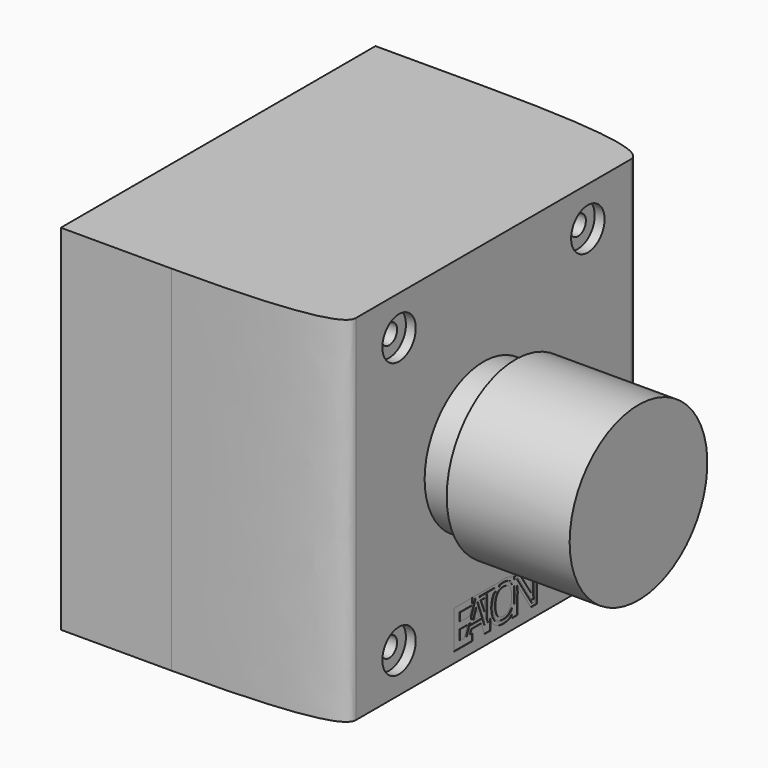
from build123d import *

# Parameters (mm, degrees)
PAD044_DEPTH            = 72
POCKET009_DEPTH         = 0.1
SKETCH057_R             = 15
PAD045_DEPTH            = 6.5
SKETCH058_R             = 17.5
PAD046_DEPTH            = 25
SKETCH059_R             = 4.25
POCKET010_DEPTH         = 2
SKETCH060_R             = 2
POCKET011_DEPTH         = 25
BODY014_ROLL_ANGLE      = 90
BODY014_PLACEMENT_ANGLE = 90


with BuildPart() as part:
    # Sketch055 → Pad044 (new body)
    with BuildSketch(Plane.XZ):
        with BuildLine():
            add(Edge.make_bspline(
                [(0, 22.5), (0, 56), (5, 56)],
                knots=[0, 0, 0, 1, 1, 1], degree=2))
            Line((5, 56), (75, 56))
            add(Edge.make_bspline(
                [(75, 56), (80, 56), (80, 22.5)],
                knots=[0, 0, 0, 1, 1, 1], degree=2))
            Line((80, 22.5), (80, 0))
            Line((80, 0), (0, 0))
            Line((0, 0), (0, 22.5))
        make_face()
    extrude(amount=PAD044_DEPTH)

    # Sketch056 → Pocket009 (cut)
    with BuildSketch(Plane(origin=(30, -62, 56), x_dir=(1, 0, 0), z_dir=(0, 0, 1))):
        with BuildLine():
            add(Edge.make_bspline(
                [(12.594125, 0), (12.204852, 0), (11.843101, -0.041679), (11.50874, -0.122307)],
                knots=[0, 0, 0, 0, 1, 1, 1, 1], degree=3))
            add(Edge.make_bspline(
                [(11.50874, -0.122307), (11.50874, -0.110394)],
                knots=[0, 0, 0.011913, 0.011913], degree=1))
            add(Edge.make_bspline(
                [(11.50874, -0.110394), (6.299052, -0.110394)],
                knots=[0, 0, 5.209688, 5.209688], degree=1))
            add(Edge.make_bspline(
                [(6.299052, -0.110394), (6.287116, -0.080215)],
                knots=[0, 0, 0.032454, 0.032454], degree=1))
            add(Edge.make_bspline(
                [(6.287116, -0.080215), (5.060886, -0.080215)],
                knots=[0, 0, 1.22623, 1.22623], degree=1))
            add(Edge.make_bspline(
                [(5.060886, -0.080215), (4.624026, -1.200834)],
                knots=[0, 0, 1.202761, 1.202761], degree=1))
            add(Edge.make_bspline(
                [(4.624026, -1.200834), (4.624026, -0.110394)],
                knots=[0, 0, 1.09044, 1.09044], degree=1))
            add(Edge.make_bspline(
                [(4.624026, -0.110394), (0, -0.110394)],
                knots=[0, 0, 4.624026, 4.624026], degree=1))
            add(Edge.make_bspline(
                [(0, -0.110394), (0, -7.899136)],
                knots=[0, 0, 7.788742, 7.788742], degree=1))
            add(Edge.make_bspline(
                [(0, -7.899136), (2.012418, -7.899136)],
                knots=[0, 0, 2.012418, 2.012418], degree=1))
            add(Edge.make_bspline(
                [(2.012418, -7.899136), (3.572062, -7.899136)],
                knots=[0, 0, 1.559644, 1.559644], degree=1))
            add(Edge.make_bspline(
                [(3.572062, -7.899136), (4.624026, -7.899136)],
                knots=[0, 0, 1.051964, 1.051964], degree=1))
            add(Edge.make_bspline(
                [(4.624026, -7.899136), (4.624026, -6.507694)],
                knots=[0, 0, 1.391443, 1.391443], degree=1))
            add(Edge.make_bspline(
                [(4.624026, -6.507694), (4.108389, -6.507694)],
                knots=[0, 0, 0.515637, 0.515637], degree=1))
            add(Edge.make_bspline(
                [(4.108389, -6.507694), (4.429866, -5.672987)],
                knots=[0, 0, 0.894473, 0.894473], degree=1))
            add(Edge.make_bspline(
                [(4.429866, -5.672987), (6.877553, -5.672987)],
                knots=[0, 0, 2.447687, 2.447687], degree=1))
            add(Edge.make_bspline(
                [(6.877553, -5.672987), (7.745701, -7.899136)],
                knots=[0, 0, 2.389439, 2.389439], degree=1))
            add(Edge.make_bspline(
                [(7.745701, -7.899136), (7.763207, -7.899136)],
                knots=[0, 0, 0.017506, 0.017506], degree=1))
            add(Edge.make_bspline(
                [(7.763207, -7.899136), (9.267946, -7.899136)],
                knots=[0, 0, 1.504738, 1.504738], degree=1))
            add(Edge.make_bspline(
                [(9.267946, -7.899136), (9.324443, -7.899136)],
                knots=[0, 0, 0.056497, 0.056497], degree=1))
            add(Edge.make_bspline(
                [(9.324443, -7.899136), (9.267946, -7.753797)],
                knots=[0, 0, 0.155934, 0.155934], degree=1))
            add(Edge.make_bspline(
                [(9.267946, -7.753797), (9.267946, -5.780205)],
                knots=[0, 0, 1.973593, 1.973593], degree=1))
            add(Edge.make_bspline(
                [(9.267946, -5.780205), (9.411309, -6.183651), (9.582414, -6.566956), (9.841672, -6.876204)],
                knots=[0, 0, 0, 0, 1, 1, 1, 1], degree=3))
            add(Edge.make_bspline(
                [(9.841672, -6.876204), (9.842468, -6.876998)],
                knots=[0, 0, 0.001124, 0.001124], degree=1))
            add(Edge.make_bspline(
                [(9.842468, -6.876998), (9.843263, -6.877792)],
                knots=[0, 0, 0.001124, 0.001124], degree=1))
            add(Edge.make_bspline(
                [(9.843263, -6.877792), (10.14946, -7.235575), (10.536235, -7.515756), (10.990716, -7.713293)],
                knots=[0, 0, 0, 0, 1, 1, 1, 1], degree=3))
            add(Edge.make_bspline(
                [(10.990716, -7.713293), (10.993103, -7.714087)],
                knots=[0, 0, 0.002516, 0.002516], degree=1))
            add(Edge.make_bspline(
                [(10.993103, -7.714087), (10.994695, -7.714881)],
                knots=[0, 0, 0.001779, 0.001779], degree=1))
            add(Edge.make_bspline(
                [(10.994695, -7.714881), (11.456226, -7.908054), (11.987744, -8), (12.583781, -8)],
                knots=[0, 0, 0, 0, 1, 1, 1, 1], degree=3))
            add(Edge.make_bspline(
                [(12.583781, -8), (13.160484, -8), (13.678935, -7.907157), (14.13308, -7.714087)],
                knots=[0, 0, 0, 0, 1, 1, 1, 1], degree=3))
            add(Edge.make_bspline(
                [(14.13308, -7.714087), (14.365213, -7.616835), (14.523604, -7.431466), (14.718743, -7.288395)],
                knots=[0, 0, 0, 0, 1, 1, 1, 1], degree=3))
            add(Edge.make_bspline(
                [(14.718743, -7.288395), (14.718743, -7.899136)],
                knots=[0, 0, 0.610742, 0.610742], degree=1))
            add(Edge.make_bspline(
                [(14.718743, -7.899136), (16.153456, -7.899136)],
                knots=[0, 0, 1.434713, 1.434713], degree=1))
            add(Edge.make_bspline(
                [(16.153456, -7.899136), (16.153456, -4.347463)],
                knots=[0, 0, 3.551673, 3.551673], degree=1))
            add(Edge.make_bspline(
                [(16.153456, -4.347463), (16.160588, -4.22418), (16.202792, -4.122505), (16.202792, -3.994838)],
                knots=[0, 0, 0, 0, 1, 1, 1, 1], degree=3))
            add(Edge.make_bspline(
                [(16.202792, -3.994838), (16.202792, -3.785244), (16.16823, -3.598459), (16.148682, -3.401568)],
                knots=[0, 0, 0, 0, 1, 1, 1, 1], degree=3))
            add(Edge.make_bspline(
                [(16.148682, -3.401568), (16.146191, -3.214645), (16.142933, -3.027806), (16.132767, -2.848009)],
                knots=[0, 0, 0, 0, 1, 1, 1, 1], degree=3))
            add(Edge.make_bspline(
                [(16.132767, -2.848009), (16.132767, -2.839273)],
                knots=[0, 0, 0.008736, 0.008736], degree=1))
            add(Edge.make_bspline(
                [(16.132767, -2.839273), (16.130935, -2.774386), (16.126329, -2.719988), (16.124014, -2.657401)],
                knots=[0, 0, 0, 0, 1, 1, 1, 1], degree=3))
            add(Edge.make_bspline(
                [(16.124014, -2.657401), (19.507487, -7.899136)],
                knots=[0, 0, 6.238884, 6.238884], degree=1))
            add(Edge.make_bspline(
                [(19.507487, -7.899136), (21.02814, -7.899136)],
                knots=[0, 0, 1.520653, 1.520653], degree=1))
            add(Edge.make_bspline(
                [(21.02814, -7.899136), (21.02814, -0.110394)],
                knots=[0, 0, 7.788742, 7.788742], degree=1))
            add(Edge.make_bspline(
                [(21.02814, -0.110394), (19.583877, -0.110394)],
                knots=[0, 0, 1.444263, 1.444263], degree=1))
            add(Edge.make_bspline(
                [(19.583877, -0.110394), (19.583877, -4.468182)],
                knots=[0, 0, 4.357788, 4.357788], degree=1))
            add(Edge.make_bspline(
                [(19.583877, -4.468182), (19.583877, -4.686201), (19.586639, -4.923965), (19.593426, -5.181376)],
                knots=[0, 0, 0, 0, 1, 1, 1, 1], degree=3))
            add(Edge.make_bspline(
                [(19.593426, -5.181376), (19.594222, -5.185347)],
                knots=[0, 0, 0.00405, 0.00405], degree=1))
            add(Edge.make_bspline(
                [(19.594222, -5.185347), (19.594222, -5.189318)],
                knots=[0, 0, 0.003971, 0.003971], degree=1))
            add(Edge.make_bspline(
                [(19.594222, -5.189318), (19.59691, -5.240297), (19.598172, -5.280567), (19.600588, -5.329892)],
                knots=[0, 0, 0, 0, 1, 1, 1, 1], degree=3))
            add(Edge.make_bspline(
                [(19.600588, -5.329892), (16.229051, -0.110394)],
                knots=[0, 0, 6.213728, 6.213728], degree=1))
            add(Edge.make_bspline(
                [(16.229051, -0.110394), (14.718743, -0.110394)],
                knots=[0, 0, 1.510308, 1.510308], degree=1))
            add(Edge.make_bspline(
                [(14.718743, -0.110394), (14.718743, -0.636156)],
                knots=[0, 0, 0.525762, 0.525762], degree=1))
            add(Edge.make_bspline(
                [(14.718743, -0.636156), (14.665122, -0.598161), (14.626356, -0.543866), (14.56994, -0.509084)],
                knots=[0, 0, 0, 0, 1, 1, 1, 1], degree=3))
            add(Edge.make_bspline(
                [(14.56994, -0.509084), (14.569144, -0.508289)],
                knots=[0, 0, 0.001124, 0.001124], degree=1))
            add(Edge.make_bspline(
                [(14.569144, -0.508289), (14.022441, -0.164724), (13.356504, 0), (12.594125, 0)],
                knots=[0, 0, 0, 0, 1, 1, 1, 1], degree=3))
        make_face()
        with BuildLine():
            add(Edge.make_bspline(
                [(15.284512, -6.876204), (15.284593, -6.876109), (15.285226, -6.876298), (15.285308, -6.876204)],
                knots=[0, 0, 0, 0, 1, 1, 1, 1], degree=3))
            add(Edge.make_bspline(
                [(15.285308, -6.876204), (15.283864, -6.878365)],
                knots=[0, 0, 0.0026, 0.0026], degree=1))
            add(Edge.make_bspline(
                [(15.283864, -6.878365), (15.284197, -6.877724), (15.28404, -6.876753), (15.284512, -6.876204)],
                knots=[0.109915, 0.109915, 0.109915, 0.109915, 1, 1, 1, 1], degree=3))
        make_face(mode=Mode.SUBTRACT)
        with BuildLine():
            add(Edge.make_bspline(
                [(1.504738, -4.534895), (3.323792, -4.534895)],
                knots=[0, 0, 1.819054, 1.819054], degree=1))
            add(Edge.make_bspline(
                [(3.323792, -4.534895), (2.555111, -6.507694)],
                knots=[0, 0, 2.117264, 2.117264], degree=1))
            add(Edge.make_bspline(
                [(2.555111, -6.507694), (1.504738, -6.507694)],
                knots=[0, 0, 1.050372, 1.050372], degree=1))
            add(Edge.make_bspline(
                [(1.504738, -6.507694), (1.504738, -4.534895)],
                knots=[0, 0, 1.972798, 1.972798], degree=1))
        make_face(mode=Mode.SUBTRACT)
        with BuildLine():
            add(Edge.make_bspline(
                [(15.315545, -2.380225), (15.43301, -2.681113), (15.508083, -3.018983), (15.550287, -3.386479)],
                knots=[0, 0, 0, 0, 1, 1, 1, 1], degree=3))
            add(Edge.make_bspline(
                [(15.550287, -3.386479), (15.551288, -3.452467), (15.555858, -3.514798), (15.555858, -3.581853)],
                knots=[0, 0, 0, 0, 1, 1, 1, 1], degree=3))
            add(Edge.make_bspline(
                [(15.555858, -3.581853), (15.555858, -4.357788)],
                knots=[0, 0, 0.775936, 0.775936], degree=1))
            add(Edge.make_bspline(
                [(15.555858, -4.357788), (15.530559, -4.733963), (15.505595, -5.11047), (15.407851, -5.426785)],
                knots=[0, 0, 0, 0, 1, 1, 1, 1], degree=3))
            add(Edge.make_bspline(
                [(15.407851, -5.426785), (15.387001, -5.493176), (15.339549, -5.533593), (15.315545, -5.596744)],
                knots=[0, 0, 0, 0, 1, 1, 1, 1], degree=3))
            add(Edge.make_bspline(
                [(15.315545, -5.596744), (15.315545, -2.380225)],
                knots=[0, 0, 3.216519, 3.216519], degree=1))
        make_face(mode=Mode.SUBTRACT)
        with BuildLine():
            add(Edge.make_bspline(
                [(5.671216, -2.350839), (5.687833, -2.398888), (5.710707, -2.467329), (5.722143, -2.497766)],
                knots=[0, 0, 0, 0, 1, 1, 1, 1], degree=3))
            add(Edge.make_bspline(
                [(5.722143, -2.497766), (5.722143, -2.496178)],
                knots=[0, 0, 0.001588, 0.001588], degree=1))
            add(Edge.make_bspline(
                [(5.722143, -2.496178), (6.380217, -4.27122)],
                knots=[0, 0, 1.893102, 1.893102], degree=1))
            add(Edge.make_bspline(
                [(6.380217, -4.27122), (4.959032, -4.27122)],
                knots=[0, 0, 1.421185, 1.421185], degree=1))
            add(Edge.make_bspline(
                [(4.959032, -4.27122), (5.626654, -2.492207)],
                knots=[0, 0, 1.90016, 1.90016], degree=1))
            add(Edge.make_bspline(
                [(5.626654, -2.492207), (5.629042, -2.487442)],
                knots=[0, 0, 0.00533, 0.00533], degree=1))
            add(Edge.make_bspline(
                [(5.629042, -2.487442), (5.641897, -2.448949), (5.657219, -2.395579), (5.671216, -2.350839)],
                knots=[0, 0, 0, 0, 1, 1, 1, 1], degree=3))
        make_face(mode=Mode.SUBTRACT)
        with BuildLine():
            add(Edge.make_bspline(
                [(10.306383, -1.501836), (10.747221, -1.501836)],
                knots=[0, 0, 0.440838, 0.440838], degree=1))
            add(Edge.make_bspline(
                [(10.747221, -1.501836), (10.515049, -1.735097), (10.314517, -2.002678), (10.186226, -2.334955)],
                knots=[0, 0, 0, 0, 1, 1, 1, 1], degree=3))
            add(Edge.make_bspline(
                [(10.186226, -2.334955), (10.000748, -2.808864), (9.913288, -3.362805), (9.913288, -3.994838)],
                knots=[0, 0, 0, 0, 1, 1, 1, 1], degree=3))
            add(Edge.make_bspline(
                [(9.913288, -3.994838), (9.913288, -4.62687), (10.000636, -5.183917), (10.185431, -5.663457)],
                knots=[0, 0, 0, 0, 1, 1, 1, 1], degree=3))
            add(Edge.make_bspline(
                [(10.185431, -5.663457), (10.372102, -6.147869), (10.672534, -6.540668), (11.075064, -6.811079)],
                knots=[0, 0, 0, 0, 1, 1, 1, 1], degree=3))
            add(Edge.make_bspline(
                [(11.075064, -6.811079), (11.07586, -6.811873)],
                knots=[0, 0, 0.001124, 0.001124], degree=1))
            add(Edge.make_bspline(
                [(11.07586, -6.811873), (11.076656, -6.812667)],
                knots=[0, 0, 0.001124, 0.001124], degree=1))
            add(Edge.make_bspline(
                [(11.076656, -6.812667), (11.490916, -7.085709), (12.00193, -7.214534), (12.583781, -7.214534)],
                knots=[0, 0, 0, 0, 1, 1, 1, 1], degree=3))
            add(Edge.make_bspline(
                [(12.583781, -7.214534), (13.171125, -7.214534), (13.680014, -7.086297), (14.083745, -6.810285)],
                knots=[0, 0, 0, 0, 1, 1, 1, 1], degree=3))
            add(Edge.make_bspline(
                [(14.083745, -6.810285), (14.345748, -6.634083), (14.546697, -6.389997), (14.718743, -6.118535)],
                knots=[0, 0, 0, 0, 1, 1, 1, 1], degree=3))
            add(Edge.make_bspline(
                [(14.718743, -6.118535), (14.718743, -6.572818)],
                knots=[0, 0, 0.454284, 0.454284], degree=1))
            add(Edge.make_bspline(
                [(14.718743, -6.572818), (14.490151, -6.816097), (14.234243, -7.026034), (13.901521, -7.165293)],
                knots=[0, 0, 0, 0, 1, 1, 1, 1], degree=3))
            add(Edge.make_bspline(
                [(13.901521, -7.165293), (13.900725, -7.166088)],
                knots=[0, 0, 0.001124, 0.001124], degree=1))
            add(Edge.make_bspline(
                [(13.900725, -7.166088), (13.89993, -7.166088)],
                knots=[0, 0, 0.000795, 0.000795], degree=1))
            add(Edge.make_bspline(
                [(13.89993, -7.166088), (13.533284, -7.322061), (13.096909, -7.404348), (12.583781, -7.404348)],
                knots=[0, 0, 0, 0, 1, 1, 1, 1], degree=3))
            add(Edge.make_bspline(
                [(12.583781, -7.404348), (12.050291, -7.404348), (11.600333, -7.321609), (11.227845, -7.166088)],
                knots=[0, 0, 0, 0, 1, 1, 1, 1], degree=3))
            add(Edge.make_bspline(
                [(11.227845, -7.166088), (10.849085, -7.001186), (10.543522, -6.777941), (10.298425, -6.49181)],
                knots=[0, 0, 0, 0, 1, 1, 1, 1], degree=3))
            add(Edge.make_bspline(
                [(10.298425, -6.49181), (10.298188, -6.491533), (10.297866, -6.491293), (10.297629, -6.491016)],
                knots=[0, 0, 0, 0, 1, 1, 1, 1], degree=3))
            add(Edge.make_bspline(
                [(10.297629, -6.491016), (10.050883, -6.196072), (9.865597, -5.843443), (9.741409, -5.422019)],
                knots=[0, 0, 0, 0, 1, 1, 1, 1], degree=3))
            add(Edge.make_bspline(
                [(9.741409, -5.422019), (9.616101, -4.996794), (9.551228, -4.518029), (9.551228, -3.984513)],
                knots=[0, 0, 0, 0, 1, 1, 1, 1], degree=3))
            add(Edge.make_bspline(
                [(9.551228, -3.984513), (9.551228, -3.278231), (9.666913, -2.67639), (9.889416, -2.170555)],
                knots=[0, 0, 0, 0, 1, 1, 1, 1], degree=3))
            add(Edge.make_bspline(
                [(9.889416, -2.170555), (10.001136, -1.916573), (10.139965, -1.695376), (10.306383, -1.501836)],
                knots=[0, 0, 0, 0, 1, 1, 1, 1], degree=3))
        make_face(mode=Mode.SUBTRACT)
        with BuildLine():
            add(Edge.make_bspline(
                [(6.839357, -1.501836), (7.763207, -1.501836)],
                knots=[0, 0, 0.92385, 0.92385], degree=1))
            add(Edge.make_bspline(
                [(7.763207, -1.501836), (7.763207, -3.880473)],
                knots=[0, 0, 2.378636, 2.378636], degree=1))
            add(Edge.make_bspline(
                [(7.763207, -3.880473), (6.839357, -1.501836)],
                knots=[0, 0, 2.551746, 2.551746], degree=1))
        make_face(mode=Mode.SUBTRACT)
        with BuildLine():
            add(Edge.make_bspline(
                [(6.022136, -1.501836), (6.198789, -1.501836)],
                knots=[0, 0, 0.176653, 0.176653], degree=1))
            add(Edge.make_bspline(
                [(6.198789, -1.501836), (7.763207, -5.529236)],
                knots=[0, 0, 4.320574, 4.320574], degree=1))
            add(Edge.make_bspline(
                [(7.763207, -5.529236), (7.763207, -6.301996)],
                knots=[0, 0, 0.772759, 0.772759], degree=1))
            add(Edge.make_bspline(
                [(7.763207, -6.301996), (7.285765, -5.077335)],
                knots=[0, 0, 1.314436, 1.314436], degree=1))
            add(Edge.make_bspline(
                [(7.285765, -5.077335), (4.020062, -5.077335)],
                knots=[0, 0, 3.265703, 3.265703], degree=1))
            add(Edge.make_bspline(
                [(4.020062, -5.077335), (3.468616, -6.507694)],
                knots=[0, 0, 1.532977, 1.532977], degree=1))
            add(Edge.make_bspline(
                [(3.468616, -6.507694), (3.195679, -6.507694)],
                knots=[0, 0, 0.272937, 0.272937], degree=1))
            add(Edge.make_bspline(
                [(3.195679, -6.507694), (3.96436, -4.534895)],
                knots=[0, 0, 2.117263, 2.117263], degree=1))
            add(Edge.make_bspline(
                [(3.96436, -4.534895), (4.222179, -4.534895)],
                knots=[0, 0, 0.257819, 0.257819], degree=1))
            add(Edge.make_bspline(
                [(4.222179, -4.534895), (4.097248, -4.866872)],
                knots=[0, 0, 0.354706, 0.354706], degree=1))
            add(Edge.make_bspline(
                [(4.097248, -4.866872), (7.238022, -4.866872)],
                knots=[0, 0, 3.140773, 3.140773], degree=1))
            add(Edge.make_bspline(
                [(7.238022, -4.866872), (6.281546, -2.288891)],
                knots=[0, 0, 2.749697, 2.749697], degree=1))
            add(Edge.make_bspline(
                [(6.281546, -2.288891), (6.28075, -2.288891)],
                knots=[0, 0, 0.000796, 0.000796], degree=1))
            add(Edge.make_bspline(
                [(6.28075, -2.288891), (6.263912, -2.244076), (6.230325, -2.146643), (6.18367, -2.006949)],
                knots=[0, 0, 0, 0, 1, 1, 1, 1], degree=3))
            add(Edge.make_bspline(
                [(6.18367, -2.006949), (6.13865, -1.872148), (6.093465, -1.733527), (6.048395, -1.592376)],
                knots=[0, 0, 0, 0, 1, 1, 1, 1], degree=3))
            add(Edge.make_bspline(
                [(6.048395, -1.592376), (6.047599, -1.588405)],
                knots=[0, 0, 0.00405, 0.00405], degree=1))
            add(Edge.make_bspline(
                [(6.047599, -1.588405), (6.046379, -1.584582), (6.044841, -1.581113), (6.043621, -1.577286)],
                knots=[0, 0, 0, 0, 1, 1, 1, 1], degree=3))
            add(Edge.make_bspline(
                [(6.043621, -1.577286), (6.035361, -1.545861), (6.029874, -1.530345), (6.022136, -1.501836)],
                knots=[0, 0, 0, 0, 1, 1, 1, 1], degree=3))
        make_face(mode=Mode.SUBTRACT)
        with BuildLine():
            add(Edge.make_bspline(
                [(1.504738, -1.501836), (4.506257, -1.501836)],
                knots=[0, 0, 3.001519, 3.001519], degree=1))
            add(Edge.make_bspline(
                [(4.506257, -1.501836), (3.862506, -3.152983)],
                knots=[0, 0, 1.772202, 1.772202], degree=1))
            add(Edge.make_bspline(
                [(3.862506, -3.152983), (1.504738, -3.152983)],
                knots=[0, 0, 2.357768, 2.357768], degree=1))
            add(Edge.make_bspline(
                [(1.504738, -3.152983), (1.504738, -1.501836)],
                knots=[0, 0, 1.651147, 1.651147], degree=1))
        make_face(mode=Mode.SUBTRACT)
        with BuildLine():
            add(Edge.make_bspline(
                [(12.594125, -1.391442), (13.345045, -1.391442), (13.822752, -1.609662), (14.139447, -2.044277)],
                knots=[0, 0, 0, 0, 1, 1, 1, 1], degree=3))
            add(Edge.make_bspline(
                [(14.139447, -2.044277), (14.139447, -2.045071)],
                knots=[0, 0, 0.000794, 0.000794], degree=1))
            add(Edge.make_bspline(
                [(14.139447, -2.045071), (14.140242, -2.045865)],
                knots=[0, 0, 0.001124, 0.001124], degree=1))
            add(Edge.make_bspline(
                [(14.140242, -2.045865), (14.467015, -2.488487), (14.647127, -3.129344), (14.647126, -3.994838)],
                knots=[0, 0, 0, 0, 1, 1, 1, 1], degree=3))
            add(Edge.make_bspline(
                [(14.647126, -3.994838), (14.647126, -4.571711), (14.566433, -5.056257), (14.414771, -5.449816)],
                knots=[0, 0, 0, 0, 1, 1, 1, 1], degree=3))
            add(Edge.make_bspline(
                [(14.414771, -5.449816), (14.264988, -5.838503), (14.046834, -6.117366), (13.749535, -6.317085)],
                knots=[0, 0, 0, 0, 1, 1, 1, 1], degree=3))
            add(Edge.make_bspline(
                [(13.749535, -6.317085), (13.748739, -6.317879)],
                knots=[0, 0, 0.001124, 0.001124], degree=1))
            add(Edge.make_bspline(
                [(13.748739, -6.317879), (13.747148, -6.317879)],
                knots=[0, 0, 0.001591, 0.001591], degree=1))
            add(Edge.make_bspline(
                [(13.747148, -6.317879), (13.464739, -6.511316), (13.085856, -6.618882), (12.583781, -6.618882)],
                knots=[0, 0, 0, 0, 1, 1, 1, 1], degree=3))
            add(Edge.make_bspline(
                [(12.583781, -6.618882), (12.089286, -6.618882), (11.70583, -6.512346), (11.406886, -6.315497)],
                knots=[0, 0, 0, 0, 1, 1, 1, 1], degree=3))
            add(Edge.make_bspline(
                [(11.406886, -6.315497), (11.406091, -6.315497)],
                knots=[0, 0, 0.000795, 0.000795], degree=1))
            add(Edge.make_bspline(
                [(11.406091, -6.315497), (11.10972, -6.115863), (10.891924, -5.837711), (10.742446, -5.449816)],
                knots=[0, 0, 0, 0, 1, 1, 1, 1], degree=3))
            add(Edge.make_bspline(
                [(10.742446, -5.449816), (10.590785, -5.056257), (10.510091, -4.571711), (10.510091, -3.994838)],
                knots=[0, 0, 0, 0, 1, 1, 1, 1], degree=3))
            add(Edge.make_bspline(
                [(10.510091, -3.994838), (10.510091, -3.417964), (10.591468, -2.937529), (10.742446, -2.551772)],
                knots=[0, 0, 0, 0, 1, 1, 1, 1], degree=3))
            add(Edge.make_bspline(
                [(10.742446, -2.551772), (10.742446, -2.550978)],
                knots=[0, 0, 0.000794, 0.000794], degree=1))
            add(Edge.make_bspline(
                [(10.742446, -2.550978), (10.742446, -2.550184)],
                knots=[0, 0, 0.000794, 0.000794], degree=1))
            add(Edge.make_bspline(
                [(10.742446, -2.550184), (10.892046, -2.161974), (11.109157, -1.888358), (11.404499, -1.695622)],
                knots=[0, 0, 0, 0, 1, 1, 1, 1], degree=3))
            add(Edge.make_bspline(
                [(11.404499, -1.695622), (11.405295, -1.694828)],
                knots=[0, 0, 0.001124, 0.001124], degree=1))
            add(Edge.make_bspline(
                [(11.405295, -1.694828), (11.406091, -1.694828)],
                knots=[0, 0, 0.000796, 0.000796], degree=1))
            add(Edge.make_bspline(
                [(11.406091, -1.694828), (11.704396, -1.498213), (12.092051, -1.391442), (12.594125, -1.391442)],
                knots=[0, 0, 0, 0, 1, 1, 1, 1], degree=3))
        make_face(mode=Mode.SUBTRACT)
        with BuildLine():
            add(Edge.make_bspline(
                [(15.315545, -0.706046), (15.903595, -0.706046)],
                knots=[0, 0, 0.58805, 0.58805], degree=1))
            add(Edge.make_bspline(
                [(15.903595, -0.706046), (19.749391, -6.660181)],
                knots=[0, 0, 7.08815, 7.08815], degree=1))
            add(Edge.make_bspline(
                [(19.749391, -6.660181), (20.270598, -6.660181)],
                knots=[0, 0, 0.521207, 0.521207], degree=1))
            add(Edge.make_bspline(
                [(20.270598, -6.660181), (20.220467, -5.860419)],
                knots=[0, 0, 0.801331, 0.801331], degree=1))
            add(Edge.make_bspline(
                [(20.220467, -5.860419), (20.213737, -5.647601), (20.203391, -5.416041), (20.190228, -5.165492)],
                knots=[0, 0, 0, 0, 1, 1, 1, 1], degree=3))
            add(Edge.make_bspline(
                [(20.190228, -5.165492), (20.190228, -5.15755)],
                knots=[0, 0, 0.007942, 0.007942], degree=1))
            add(Edge.make_bspline(
                [(20.190228, -5.15755), (20.183709, -4.907877), (20.18068, -4.677584), (20.18068, -4.468182)],
                knots=[0, 0, 0, 0, 1, 1, 1, 1], degree=3))
            add(Edge.make_bspline(
                [(20.18068, -4.468182), (20.18068, -0.706046)],
                knots=[0, 0, 3.762136, 3.762136], degree=1))
            add(Edge.make_bspline(
                [(20.18068, -0.706046), (20.431337, -0.706046)],
                knots=[0, 0, 0.250657, 0.250657], degree=1))
            add(Edge.make_bspline(
                [(20.431337, -0.706046), (20.431337, -7.303484)],
                knots=[0, 0, 6.597439, 6.597439], degree=1))
            add(Edge.make_bspline(
                [(20.431337, -7.303484), (19.832943, -7.303484)],
                knots=[0, 0, 0.598394, 0.598394], degree=1))
            add(Edge.make_bspline(
                [(19.832943, -7.303484), (15.976802, -1.329495)],
                knots=[0, 0, 7.110441, 7.110441], degree=1))
            add(Edge.make_bspline(
                [(15.976802, -1.329495), (15.448433, -1.329495)],
                knots=[0, 0, 0.528369, 0.528369], degree=1))
            add(Edge.make_bspline(
                [(15.448433, -1.329495), (15.453208, -1.38906)],
                knots=[0, 0, 0.059756, 0.059756], degree=1))
            add(Edge.make_bspline(
                [(15.453208, -1.38906), (15.40412, -1.318832), (15.369618, -1.235235), (15.315545, -1.16986)],
                knots=[0, 0, 0, 0, 1, 1, 1, 1], degree=3))
            add(Edge.make_bspline(
                [(15.315545, -1.16986), (15.315545, -0.706046)],
                knots=[0, 0, 0.463814, 0.463814], degree=1))
        make_face(mode=Mode.SUBTRACT)
        with BuildLine():
            add(Edge.make_bspline(
                [(6.530611, -0.706046), (10.328663, -0.706046)],
                knots=[0, 0, 3.798052, 3.798052], degree=1))
            add(Edge.make_bspline(
                [(10.328663, -0.706046), (10.247458, -0.768801), (10.171191, -0.836174), (10.097104, -0.906185)],
                knots=[0, 0, 0, 0, 1, 1, 1, 1], degree=3))
            add(Edge.make_bspline(
                [(10.097104, -0.906185), (8.671143, -0.906185)],
                knots=[0, 0, 1.425961, 1.425961], degree=1))
            add(Edge.make_bspline(
                [(8.671143, -0.906185), (8.671143, -6.217016)],
                knots=[0, 0, 5.310831, 5.310831], degree=1))
            add(Edge.make_bspline(
                [(8.671143, -6.217016), (8.36001, -5.41646)],
                knots=[0, 0, 0.858891, 0.858891], degree=1))
            add(Edge.make_bspline(
                [(8.36001, -5.41646), (8.36001, -0.906185)],
                knots=[0, 0, 4.510275, 4.510275], degree=1))
            add(Edge.make_bspline(
                [(8.36001, -0.906185), (6.607798, -0.906185)],
                knots=[0, 0, 1.752213, 1.752213], degree=1))
            add(Edge.make_bspline(
                [(6.607798, -0.906185), (6.530611, -0.706046)],
                knots=[0, 0, 0.214508, 0.214508], degree=1))
        make_face(mode=Mode.SUBTRACT)
        with BuildLine():
            add(Edge.make_bspline(
                [(5.469099, -0.675866), (5.511272, -0.675866)],
                knots=[0, 0, 0.042174, 0.042174], degree=1))
            add(Edge.make_bspline(
                [(5.511272, -0.675866), (5.368836, -1.242927)],
                knots=[0, 0, 0.584676, 0.584676], degree=1))
            add(Edge.make_bspline(
                [(5.368836, -1.242927), (5.336041, -1.37385), (5.300131, -1.508345), (5.260616, -1.646381)],
                knots=[0, 0, 0, 0, 1, 1, 1, 1], degree=3))
            add(Edge.make_bspline(
                [(5.260616, -1.646381), (5.259024, -1.651147)],
                knots=[0, 0, 0.005024, 0.005024], degree=1))
            add(Edge.make_bspline(
                [(5.259024, -1.651147), (5.258228, -1.655912)],
                knots=[0, 0, 0.004831, 0.004831], degree=1))
            add(Edge.make_bspline(
                [(5.258228, -1.655912), (5.22657, -1.782302), (5.191592, -1.898092), (5.154782, -2.002184)],
                knots=[0, 0, 0, 0, 1, 1, 1, 1], degree=3))
            add(Edge.make_bspline(
                [(5.154782, -2.002184), (5.152396, -2.009332)],
                knots=[0, 0, 0.007536, 0.007536], degree=1))
            add(Edge.make_bspline(
                [(5.152396, -2.009332), (5.150008, -2.017274)],
                knots=[0, 0, 0.008293, 0.008293], degree=1))
            add(Edge.make_bspline(
                [(5.150008, -2.017274), (5.117078, -2.129021), (5.08782, -2.223331), (5.062477, -2.299216)],
                knots=[0, 0, 0, 0, 1, 1, 1, 1], degree=3))
            add(Edge.make_bspline(
                [(5.062477, -2.299216), (4.442598, -3.94798)],
                knots=[0, 0, 1.76144, 1.76144], degree=1))
            add(Edge.make_bspline(
                [(4.442598, -3.94798), (4.442598, -3.308647)],
                knots=[0, 0, 0.639333, 0.639333], degree=1))
            add(Edge.make_bspline(
                [(4.442598, -3.308647), (5.469099, -0.675866)],
                knots=[0, 0, 2.825816, 2.825816], degree=1))
        make_face(mode=Mode.SUBTRACT)
        with BuildLine():
            add(Edge.make_bspline(
                [(12.594125, -0.595652), (13.271376, -0.595652), (13.81606, -0.739453), (14.251645, -1.013402)],
                knots=[0, 0, 0, 0, 1, 1, 1, 1], degree=3))
            add(Edge.make_bspline(
                [(14.251645, -1.013402), (14.253237, -1.014196)],
                knots=[0, 0, 0.001779, 0.001779], degree=1))
            add(Edge.make_bspline(
                [(14.253237, -1.014196), (14.254033, -1.014991)],
                knots=[0, 0, 0.001124, 0.001124], degree=1))
            add(Edge.make_bspline(
                [(14.254033, -1.014991), (14.431469, -1.124159), (14.57738, -1.263696), (14.718743, -1.408915)],
                knots=[0, 0, 0, 0, 1, 1, 1, 1], degree=3))
            add(Edge.make_bspline(
                [(14.718743, -1.408915), (14.718743, -1.902114)],
                knots=[0, 0, 0.493199, 0.493199], degree=1))
            add(Edge.make_bspline(
                [(14.718743, -1.902114), (14.679739, -1.838506), (14.665495, -1.753489), (14.621662, -1.694034)],
                knots=[0, 0, 0, 0, 1, 1, 1, 1], degree=3))
            add(Edge.make_bspline(
                [(14.621662, -1.694034), (14.184695, -1.094362), (13.471653, -0.795791), (12.594125, -0.795791)],
                knots=[0, 0, 0, 0, 1, 1, 1, 1], degree=3))
            add(Edge.make_bspline(
                [(12.594125, -0.795791), (12.189187, -0.795791), (11.835296, -0.881408), (11.50874, -1.008637)],
                knots=[0, 0, 0, 0, 1, 1, 1, 1], degree=3))
            add(Edge.make_bspline(
                [(11.50874, -1.008637), (11.50874, -0.752904)],
                knots=[0, 0, 0.255734, 0.255734], degree=1))
            add(Edge.make_bspline(
                [(11.50874, -0.752904), (11.828229, -0.658122), (12.179746, -0.595652), (12.594125, -0.595652)],
                knots=[0, 0, 0, 0, 1, 1, 1, 1], degree=3))
        make_face(mode=Mode.SUBTRACT)
    extrude(amount=-POCKET009_DEPTH, mode=Mode.SUBTRACT)

    # Sketch057 (on Face3 of Pocket009) → Pad045 (join)
    with BuildSketch(Plane(origin=(0, 0, 56), x_dir=(-1, 0, 0), z_dir=(0, 0, 1))):
        with Locations((-37.5, 36)):
            Circle(SKETCH057_R)
    extrude(amount=PAD045_DEPTH)

    # Sketch058 (on Face65 of Pad045) → Pad046 (join)
    with BuildSketch(Plane(origin=(0, 0, 62.5), x_dir=(-1, 0, 0), z_dir=(0, 0, 1))):
        with Locations((-37.5, 36)):
            Circle(SKETCH058_R)
    extrude(amount=PAD046_DEPTH)

    # Sketch059 (on Face3 of Pad046) → Pocket010 (cut)
    with BuildSketch(Plane(origin=(0, 0, 56), x_dir=(-1, 0, 0), z_dir=(0, 0, 1))):
        with Locations((-16, 64)):
            Circle(SKETCH059_R)
        with Locations((-64, 8)):
            Circle(SKETCH059_R)
        with Locations((-64, 64)):
            Circle(SKETCH059_R)
        with Locations((-16, 8)):
            Circle(SKETCH059_R)
    extrude(amount=-POCKET010_DEPTH, mode=Mode.SUBTRACT)

    # Sketch060 (on Face72 of Pocket010) → Pocket011 (cut)
    with BuildSketch(Plane(origin=(0, 0, 54), x_dir=(-1, 0, 0), z_dir=(0, 0, 1))):
        with Locations((-16, 8)):
            Circle(SKETCH060_R)
        with Locations((-64, 8)):
            Circle(SKETCH060_R)
        with Locations((-64, 64)):
            Circle(SKETCH060_R)
        with Locations((-16, 64)):
            Circle(SKETCH060_R)
    extrude(amount=-POCKET011_DEPTH, mode=Mode.SUBTRACT)


with BuildPart() as part_1:
    # Body014 roll: moved
    add(part.part.rotate(Axis((0, 0, 0), (1, 0, 0)), BODY014_ROLL_ANGLE))


with BuildPart() as part_2:
    # Body014 placement: moved
    add(part_1.part.moved(Location((-187.5, 95, 180))).rotate(Axis((-187.5, 95, 180), (0, 0, 1)), BODY014_PLACEMENT_ANGLE))


solid = part_2.part
